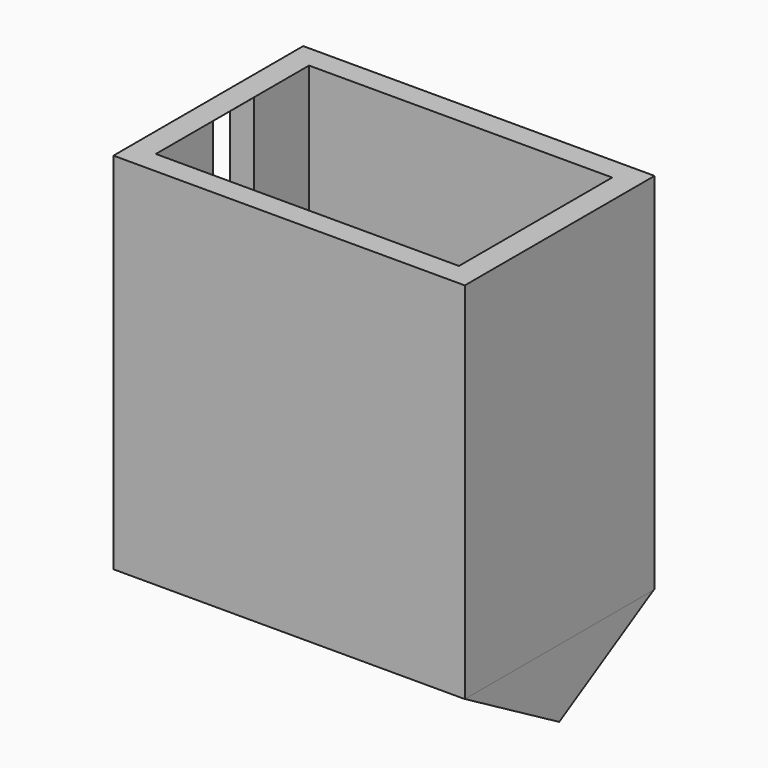
from build123d import *

# Parameters (mm, degrees)
F0_W     = 82.0065811276
F0_H     = 55.3618445992
F1_DEPTH = 85
F3_DEPTH = 81.9
F4_W     = 70.7565844059
F4_H     = 44.7039492428
F5_DEPTH = 85
F6_W     = 30.9852808714
F6_H     = 6.8782754242
F6_H_2   = 5.6699812412
F6_W_2   = 11.9137810543
F6_H_3   = 24.3619084358
F7_DEPTH = 55
F9_START = -30.5
F8_W     = 55.3618445992
F8_H     = 5.8199772239
F9_DEPTH = 48


with BuildPart() as f1:
    # F0 (on Top) → F1 (new body)
    with BuildSketch(Plane.XY):
        Rectangle(F0_W, F0_H)
    extrude(amount=F1_DEPTH)

    # F2 (on face) → F3 (join)
    with BuildSketch(Plane(origin=(-41.0032905638, 0, 0), x_dir=(0, -1, 0), z_dir=(-1, 0, 0))):
        Polygon((27.6809222996, 0), (-27.6809222996, 0), (0, -15.9815879411), align=None)
    extrude(amount=-F3_DEPTH)

    # F4 (on face) → F5 (cut)
    with BuildSketch(Plane.XY.offset(85)):
        Rectangle(F4_W, F4_H)
    extrude(amount=-F5_DEPTH, mode=Mode.SUBTRACT)

    # F6 (on face) → F7 (cut)
    with BuildSketch(Plane(origin=(-41.0032905638, 0, 0), x_dir=(0, -1, 0), z_dir=(-1, 0, 0))):
        with Locations((0, 14.1018014401)):
            Rectangle(F6_W, F6_H)
        with Locations((0, 34.5212779939)):
            Rectangle(F6_W, F6_H_2)
        with Locations((-0.3322646953, 72.8002712131)):
            Rectangle(F6_W_2, F6_H_3)
    extrude(amount=-F7_DEPTH, mode=Mode.SUBTRACT)

    # F8 (on face) → F9 (join)
    with BuildSketch(Plane.YZ.offset(41.0032905638).offset(F9_START)):
        with Locations((0, 42.5)):
            Rectangle(F8_W, F8_H)
    extrude(amount=-F9_DEPTH)


solid = f1.part
